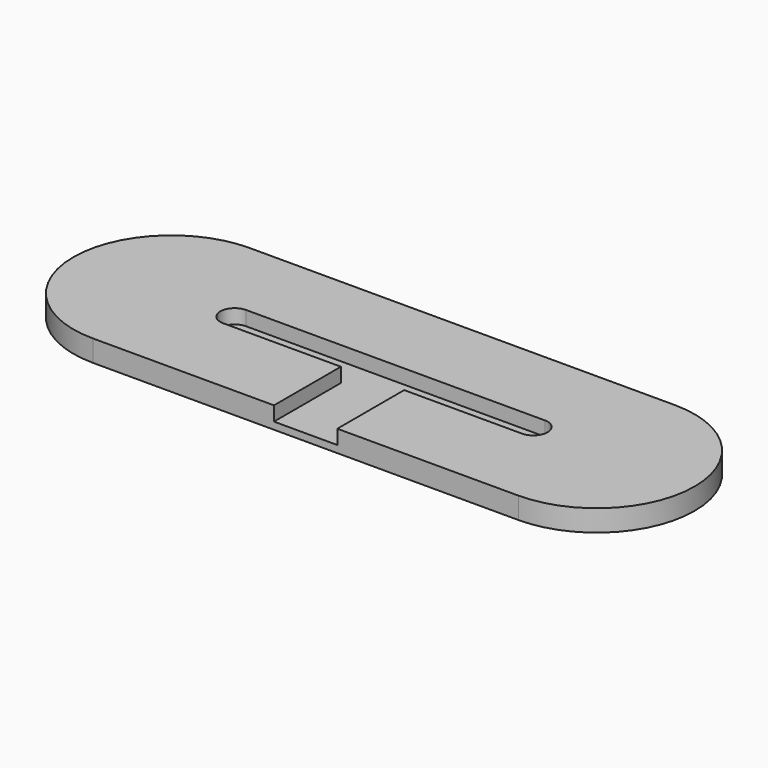
from build123d import *

# Parameters (mm, degrees)
PAD_DEPTH       = 9
POCKET_DEPTH    = 6
SKETCH002_W     = 26.5
SKETCH002_H     = 35
POCKET001_DEPTH = 6


with BuildPart() as part:
    # Sketch → Pad (new body)
    with BuildSketch(Plane.XY):
        with BuildLine():
            ThreePointArc((-89, 41), (-130, 0), (-89, -41))
            Line((-89, -41), (89, -41))
            ThreePointArc((89, -41), (130, 0), (89, 41))
            Line((-89, 41), (89, 41))
        make_face()
    extrude(amount=PAD_DEPTH)

    # Sketch001 (on Face6 of Pad) → Pocket (cut)
    with BuildSketch(Plane.XY.offset(9)):
        with BuildLine():
            ThreePointArc((-62.5, 6), (-68.5, 0), (-62.5, -6))
            Line((-62.5, -6), (62.5, -6))
            ThreePointArc((62.5, -6), (68.5, 0), (62.5, 6))
            Line((-62.5, 6), (62.5, 6))
        make_face()
    extrude(amount=-POCKET_DEPTH, mode=Mode.SUBTRACT)

    # Sketch002 (on Face5 of Pocket) → Pocket001 (cut)
    with BuildSketch(Plane.XY.offset(9)):
        with Locations((0, -23.5)):
            Rectangle(SKETCH002_W, SKETCH002_H)
    extrude(amount=-POCKET001_DEPTH, mode=Mode.SUBTRACT)


solid = part.part
